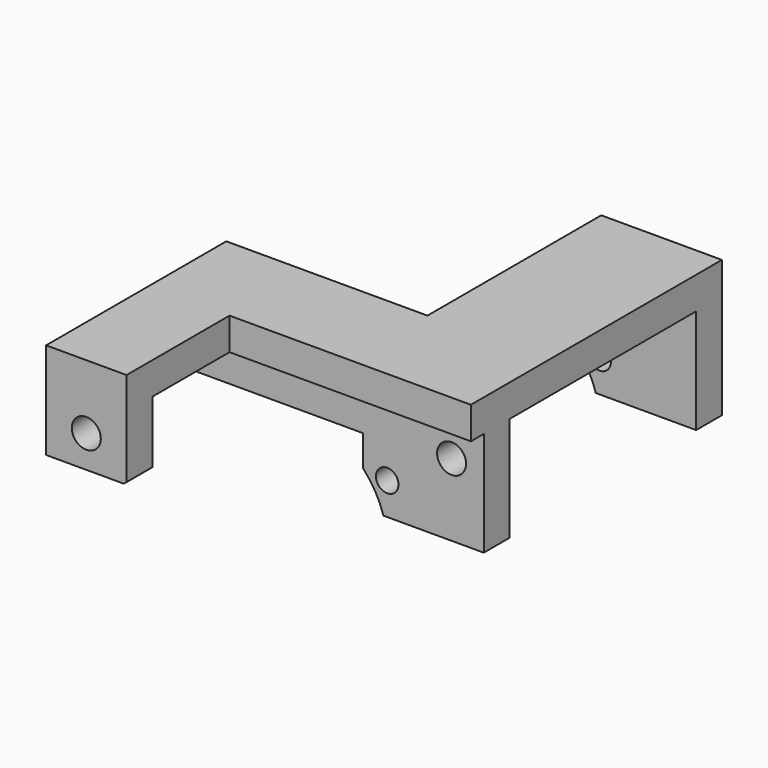
from build123d import *

# Parameters (mm, degrees)
PAD_DEPTH       = 4
SKETCH001_W     = 25
SKETCH001_H     = 4
PAD001_DEPTH    = 4.8
SKETCH002_W     = 15
SKETCH002_H     = 4
PAD002_DEPTH    = 13
SKETCH003_W     = 10
SKETCH003_H     = 4
PAD003_DEPTH    = 8
SKETCH004_R     = 1.4
SKETCH004_R_2   = 11
POCKET_DEPTH    = 100
SKETCH005_R     = 1.8
POCKET001_DEPTH = 5
SKETCH007_R     = 1.8
POCKET002_DEPTH = 5
SKETCH008_W     = 25
SKETCH008_H     = 4
PAD004_DEPTH    = 6


with BuildPart() as part:
    # Sketch → Pad (new body)
    with BuildSketch(Plane.XY):
        Polygon((0, 33), (0, 0), (-25, 0), (-25, -22), (-15, -22), (-15, -6), (15, -6), (15, 33), align=None)
    extrude(amount=PAD_DEPTH)

    # Sketch001 (on Face9 of Pad) → Pad001 (join)
    with BuildSketch(Plane(origin=(0, 0, 0), x_dir=(1, 0, 0), z_dir=(0, 0, -1))):
        with Locations((-12.5, 2)):
            Rectangle(SKETCH001_W, SKETCH001_H)
    extrude(amount=PAD001_DEPTH)

    # Sketch002 (on Face4 of Pad001) → Pad002 (join)
    with BuildSketch(Plane(origin=(0, 0, 0), x_dir=(1, 0, 0), z_dir=(0, 0, -1))):
        with Locations((7.5, -31)):
            Rectangle(SKETCH002_W, SKETCH002_H)
        with Locations((7.5, 2)):
            Rectangle(SKETCH002_W, SKETCH002_H)
    extrude(amount=PAD002_DEPTH)

    # Sketch003 (on Face4 of Pad002) → Pad003 (join)
    with BuildSketch(Plane(origin=(0, 0, 0), x_dir=(1, 0, 0), z_dir=(0, 0, -1))):
        with Locations((-20, 20)):
            Rectangle(SKETCH003_W, SKETCH003_H)
    extrude(amount=PAD003_DEPTH)

    # Sketch004 (on Face20 of Pad003) → Pocket (cut)
    with BuildSketch(Plane(origin=(0, 33, 0), x_dir=(-1, 0, 0), z_dir=(0, 1, 0))):
        with Locations((-3, -9)):
            Circle(SKETCH004_R)
        with Locations((8, -16.2)):
            Circle(SKETCH004_R_2)
    extrude(amount=-POCKET_DEPTH, mode=Mode.SUBTRACT)

    # Sketch005 (on Face18 of Pocket) → Pocket001 (cut)
    with BuildSketch(Plane.XZ.offset(22)):
        with Locations((-20, -4)):
            Circle(SKETCH005_R)
    extrude(amount=-POCKET001_DEPTH, mode=Mode.SUBTRACT)

    # Sketch007 (on Face15 of Pocket001) → Pocket002 (cut)
    with BuildSketch(Plane.XZ.offset(4)):
        with Locations((11, -4)):
            Circle(SKETCH007_R)
    extrude(amount=-POCKET002_DEPTH, mode=Mode.SUBTRACT)

    # Sketch008 (on Face17 of Pocket002) → Pad004 (join)
    with BuildSketch(Plane(origin=(0, 0, 0), x_dir=(-1, 0, 0), z_dir=(0, 1, 0))):
        with Locations((12.5, 2)):
            Rectangle(SKETCH008_W, SKETCH008_H)
    extrude(amount=PAD004_DEPTH)


solid = part.part
